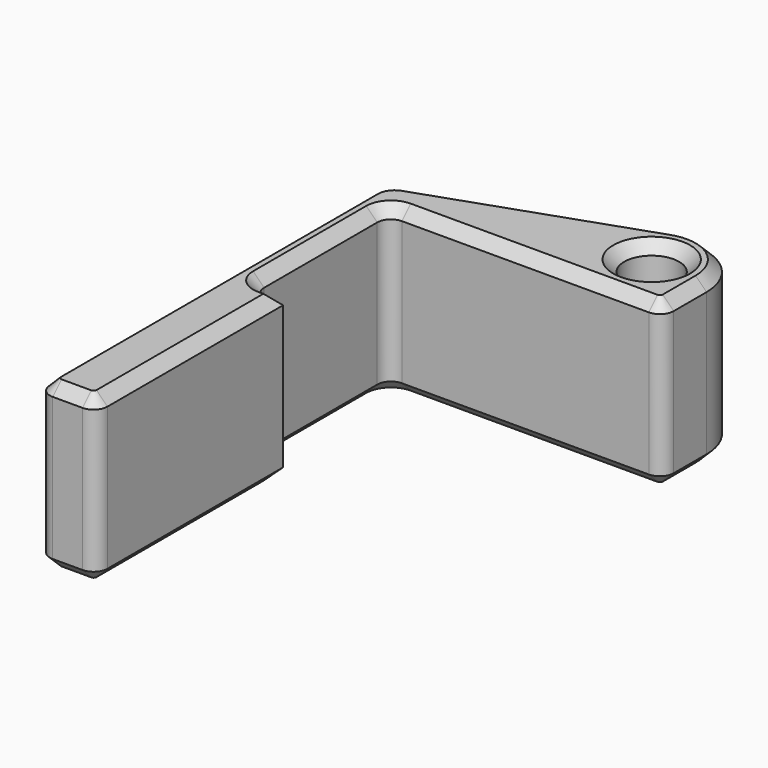
from build123d import *

# Parameters (mm, degrees)
F0_R     = 3.175
F1_DEPTH = 19.05
F2_SIZE  = 1.27


with BuildPart() as f1:
    # F0 (on Top) → F1 (new body)
    with BuildSketch(Plane.XY):
        with BuildLine():
            ThreePointArc((15.964405, 27.0002), (14.832892, 27.468888), (14.364205, 28.6004))
            Line((14.364205, 28.6004), (14.364205, 44.9627))
            ThreePointArc((14.364205, 44.9627), (14.829173, 46.085232), (15.951705, 46.5502))
            Line((15.951705, 46.5502), (39.764205, 46.5502))
            Line((39.764205, 46.5502), (44.514005, 46.5502))
            ThreePointArc((44.514005, 46.5502), (45.645517, 47.018888), (46.114205, 48.1504))
            Line((46.114205, 48.1504), (46.114205, 52.9002))
            ThreePointArc((46.114205, 52.9002), (43.447159, 58.073047), (37.686379, 58.900628))
            Line((37.686379, 58.900628), (13.325292, 50.464883))
            ThreePointArc((13.325292, 50.464883), (11.777781, 49.306146), (11.189205, 47.464669))
            Line((11.189205, 47.464669), (11.189205, 1.6002))
            ThreePointArc((11.189205, 1.6002), (11.657892, 0.468688), (12.789405, 0))
            Line((12.789405, 0), (16.243805, 0))
            ThreePointArc((16.243805, 0), (17.375317, 0.468688), (17.844005, 1.6002))
            Line((17.844005, 1.6002), (17.844005, 27.0002))
            Line((17.844005, 27.0002), (15.964405, 27.0002))
        make_face()
        with Locations((39.764205, 52.9002)):
            Circle(F0_R, mode=Mode.SUBTRACT)
    extrude(amount=F1_DEPTH)

    # F2
    f2_edges = [f1.edges().sort_by_distance(p)[0] for p in [
        (25.505836, 54.682756, 19.05),
        (36.589205, 52.9002, 19.05),
        (30.232855, 46.5502, 0),
        (36.589205, 52.9002, 0),
    ]]
    chamfer(f2_edges, length=F2_SIZE)


solid = f1.part
